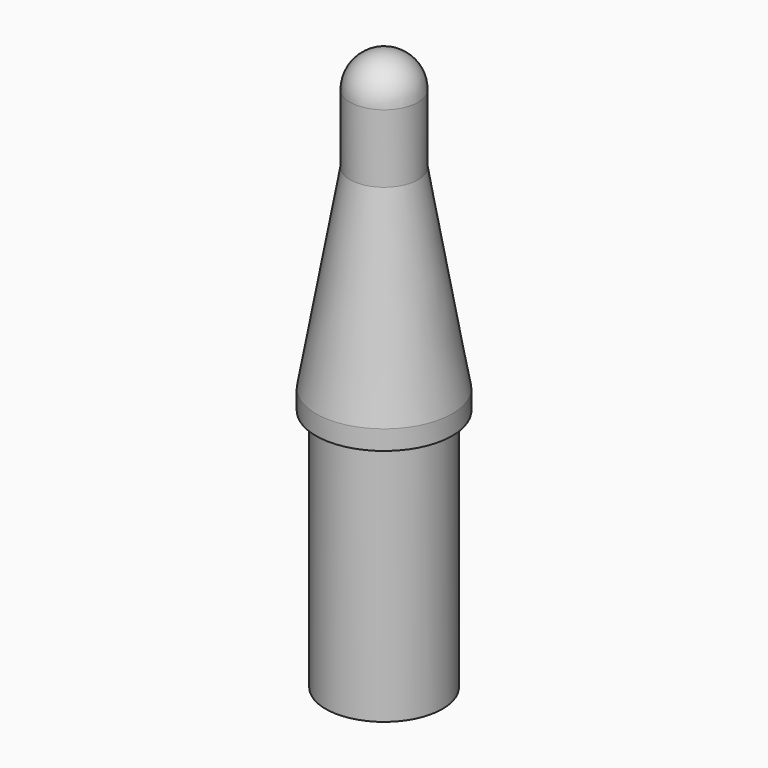
from build123d import *

# Parameters (mm, degrees)
F0_R      = 6
F1_DEPTH  = 25
F2_R      = 7
F3_DEPTH  = 2
F3_FACE_R = 7
F5_R      = 3.5
F7_DEPTH  = 7


with BuildPart() as f1:
    # F0 (on Top) → F1 (new body)
    with BuildSketch(Plane.XY):
        Circle(F0_R)
    extrude(amount=F1_DEPTH)

    # F2 (on face) → F3 (join)
    with BuildSketch(Plane.XY.offset(25)):
        Circle(F2_R)
    extrude(amount=F3_DEPTH)

    # F3_face (on face) → F6 section 0
    with BuildSketch(Plane.XY.offset(27)):
        Circle(F3_FACE_R)
    # F5 (on offset) → F6 section 1
    with BuildSketch(Plane.XY.offset(47)):
        Circle(F5_R)
    loft()

    # F7 (add): a face of the model
    f7_faces = [f1.faces().sort_by_distance(p)[0] for p in [
        (0, 0, 47),
    ]]
    extrude(f7_faces, amount=F7_DEPTH)

    # F8 (on face) → F9 (revolve)
    with BuildSketch(Plane.XY.offset(54)):
        with BuildLine():
            Line((0.407853673, -3.4761552585), (0, 0))
            Line((0, 0), (-0.407853673, 3.4761552585))
            ThreePointArc((-0.407853673, 3.4761552585), (-3.4761552585, -0.407853673), (0.407853673, -3.4761552585))
        make_face()
    revolve(axis=Axis((0.2039268365, -1.7380776293, 54), (0.1165296209, -0.9931872167, 0)))


solid = f1.part
